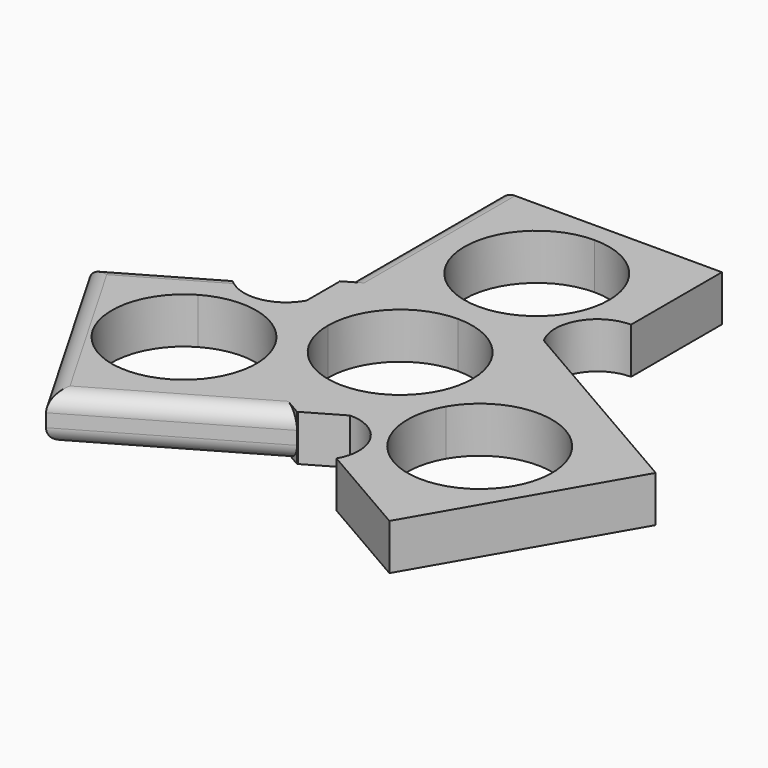
from build123d import *

# Parameters (mm, degrees)
F1_DEPTH = 7
F3_ANGLE = 240
F4_ANGLE = 120
F6_R     = 2.5


with BuildPart() as f1:
    # F0 (on Top) → F1 (new body)
    with BuildSketch(Plane.XY):
        with BuildLine():
            ThreePointArc((-11, 0), (-7.7781745931, 7.7781745931), (0, 11))
            Line((0, 11), (0, 15))
            ThreePointArc((0, 15), (-11, 26), (0, 37))
            Line((0, 37), (0, 40))
            Line((0, 40), (-17, 40))
            Line((-17, 40), (-17, 0))
            Line((-17, 0), (-11, 0))
        make_face()
        with BuildLine():
            ThreePointArc((0, 11), (7.7781745931, 7.7781745931), (11, 0))
            Line((11, 0), (17, 0))
            Line((17, 0), (17, 9.8637529312))
            ThreePointArc((17, 9.8637529312), (10.5771972535, 16.2865556777), (17, 22.7093584241))
            Line((17, 22.7093584241), (17, 40))
            Line((17, 40), (0, 40))
            Line((0, 40), (0, 37))
            ThreePointArc((0, 37), (7.7781745931, 33.7781745931), (11, 26))
            ThreePointArc((11, 26), (7.7781745931, 18.2218254069), (0, 15))
            Line((0, 15), (0, 11))
        make_face()
    extrude(amount=F1_DEPTH)


with BuildPart() as f3_1:
    # F3: copy of F1
    add(f1.part.rotate(Axis((0, 0, 24.7764140368), (0, 0, 1)), F3_ANGLE))


with BuildPart() as f4_1:
    # F4: copy of F1
    add(f1.part.rotate(Axis((0, 0, 24.7764140368), (0, 0, 1)), F4_ANGLE))


with BuildPart() as f1_1:
    add(f1.part)

    # F5: union F3_1, F4_1
    add(f3_1.part)
    add(f4_1.part)

    # F6
    f6_edges = [f1_1.edges().sort_by_distance(p)[0] for p in [
        (-17, 24.907477, 7),
        (-17, 24.907477, 0),
        (-35.653949, -0.954908, 7),
        (-35.653949, -0.954908, 0),
        (-13.070508, -27.176171, 7),
        (-13.070508, -27.176171, 0),
        (-34.641016, -20, 7),
        (-34.641016, -20, 0),
    ]]
    fillet(f6_edges, radius=F6_R)


solid = f1_1.part
